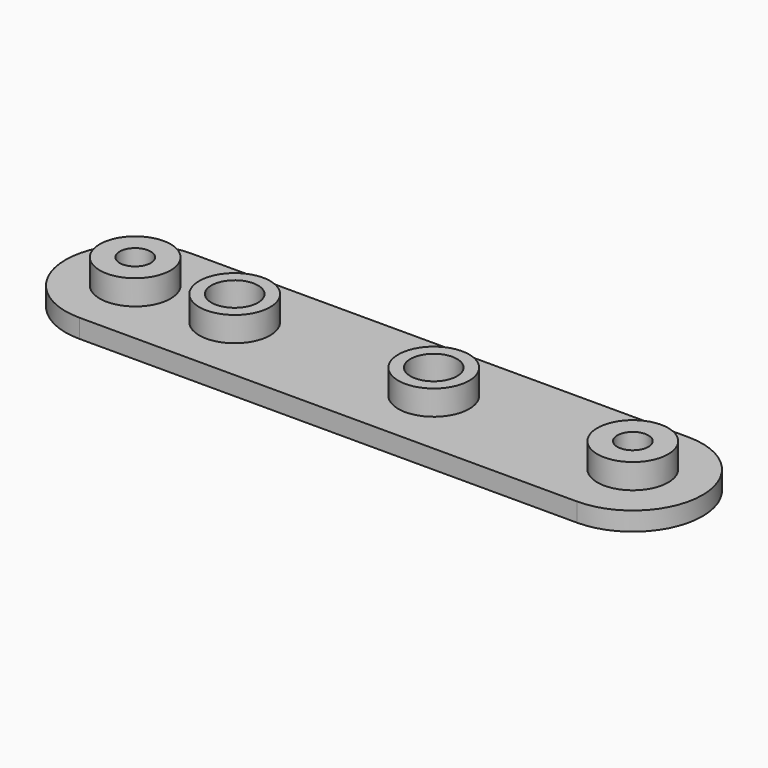
from build123d import *

# Parameters (mm, degrees)
F0_R     = 4.524375
F1_DEPTH = 2.38125
F0_R_2   = 1.984375
F0_R_3   = 2.976563
F2_DEPTH = 5.55625


with BuildPart() as f1:
    # F0 (on Top) → F1 (new body)
    with BuildSketch(Plane.XY):
        with BuildLine():
            ThreePointArc((-19.05, 8.89), (-27.94, 0), (-19.05, -8.89))
            Line((-19.05, -8.89), (44.45, -8.89))
            ThreePointArc((44.45, -8.89), (53.34, 0), (44.45, 8.89))
            Line((44.45, 8.89), (-19.05, 8.89))
        make_face()
        with Locations((-19.05, 0)):
            Circle(F0_R, mode=Mode.SUBTRACT)
        with Locations((-6.35, 0)):
            Circle(F0_R, mode=Mode.SUBTRACT)
        with Locations((19.05, 0)):
            Circle(F0_R, mode=Mode.SUBTRACT)
        with Locations((44.45, 0)):
            Circle(F0_R, mode=Mode.SUBTRACT)
    extrude(amount=F1_DEPTH)

    # F0 (on Top) → F2 (join)
    with BuildSketch(Plane.XY):
        with Locations((-19.05, 0)):
            Circle(F0_R)
        with Locations((-19.05, 0)):
            Circle(F0_R_2, mode=Mode.SUBTRACT)
        with Locations((-6.35, 0)):
            Circle(F0_R)
        with Locations((-6.35, 0)):
            Circle(F0_R_3, mode=Mode.SUBTRACT)
        with Locations((19.05, 0)):
            Circle(F0_R)
        with Locations((19.05, 0)):
            Circle(F0_R_3, mode=Mode.SUBTRACT)
        with Locations((44.45, 0)):
            Circle(F0_R)
        with Locations((44.45, 0)):
            Circle(F0_R_2, mode=Mode.SUBTRACT)
    extrude(amount=F2_DEPTH)


solid = f1.part
